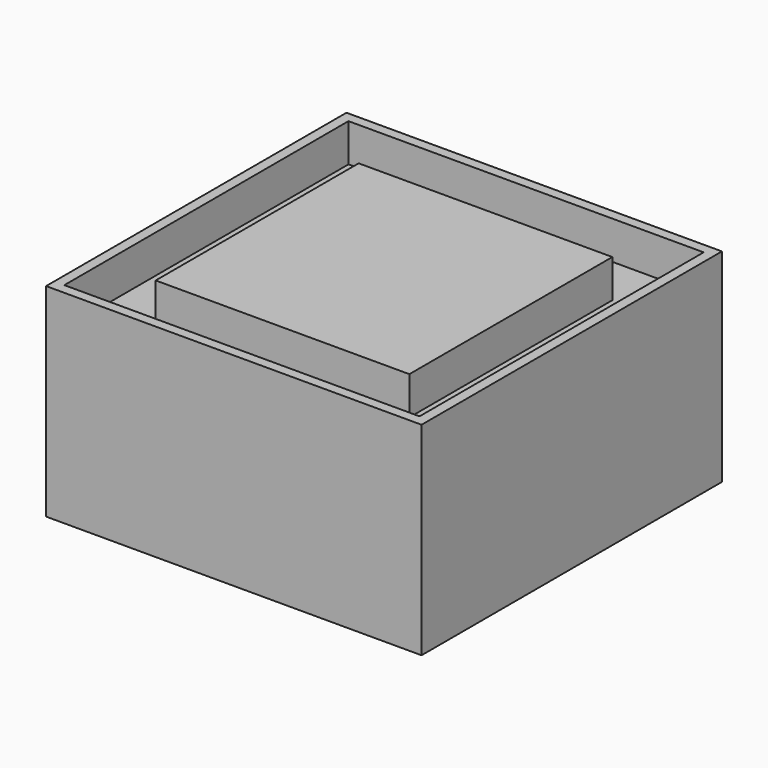
from build123d import *

# Parameters (mm, degrees)
F0_W     = 46.99
F0_H     = 46.99
F0_W_2   = 44.45
F0_H_2   = 44.45
F0_W_3   = 31.75
F0_H_3   = 31.75
F1_DEPTH = 25.4
F2_DEPTH = 4.7625


with BuildPart() as f1:
    # F0 (on Top) → F1 (new body)
    with BuildSketch(Plane.XY):
        with Locations((-23.495, 23.495)):
            Rectangle(F0_W, F0_H)
        with Locations((-23.495, 23.495)):
            Rectangle(F0_W_2, F0_H_2, mode=Mode.SUBTRACT)
        with Locations((-23.495, 23.495)):
            Rectangle(F0_W_2, F0_H_2)
        with Locations((-23.495, 23.495)):
            Rectangle(F0_W_3, F0_H_3, mode=Mode.SUBTRACT)
        with Locations((-23.495, 23.495)):
            Rectangle(F0_W_3, F0_H_3)
    extrude(amount=-F1_DEPTH)

    # F0 (on Top) → F2 (cut)
    with BuildSketch(Plane.XY):
        with Locations((-23.495, 23.495)):
            Rectangle(F0_W_2, F0_H_2)
        with Locations((-23.495, 23.495)):
            Rectangle(F0_W_3, F0_H_3, mode=Mode.SUBTRACT)
    extrude(amount=-F2_DEPTH, mode=Mode.SUBTRACT)


solid = f1.part
